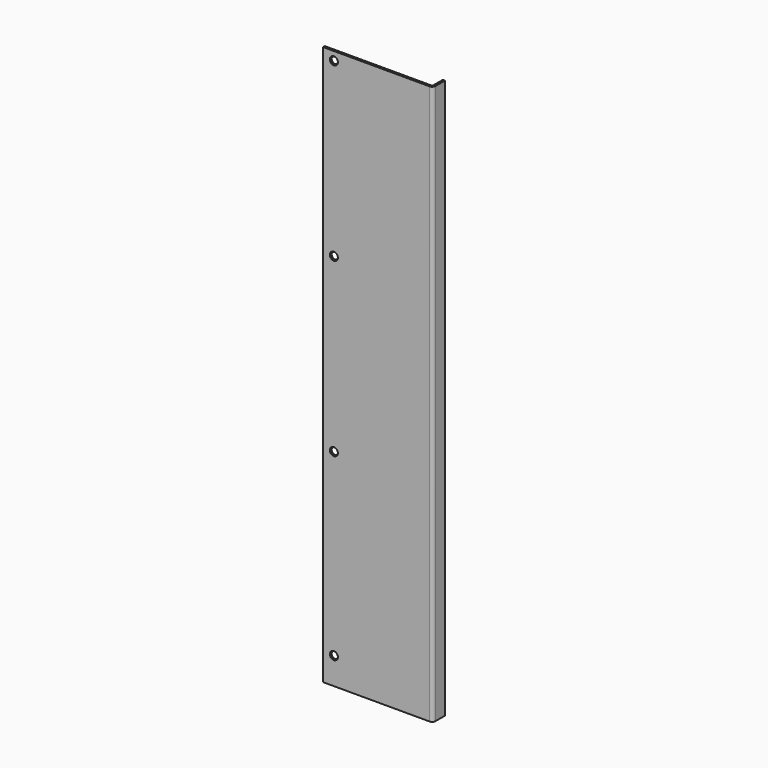
from build123d import *

# Parameters (mm, degrees)
F1_DEPTH = 260
F2_R     = 3.25
F3_DEPTH = 25
F4_SIZE  = 0.5


with BuildPart() as f1:
    # F0 (on Top) → F1 (new body, symmetric)
    with BuildSketch(Plane.XY):
        with BuildLine():
            Line((0, 12), (0, 1))
            ThreePointArc((0, 1), (-0.2928932188, 0.2928932188), (-1, 0))
            Line((-1, 0), (-100, 0))
            Line((-100, 0), (-100, -2))
            Line((-100, -2), (-1, -2))
            ThreePointArc((-1, -2), (1.1213203436, -1.1213203436), (2, 1))
            Line((2, 1), (2, 12))
            Line((2, 12), (0, 12))
        make_face()
    extrude(amount=F1_DEPTH, both=True)

    # F2 (on face) → F3 (cut)
    with BuildSketch(Plane.XZ.offset(2)):
        with Locations((-90, 252)):
            Circle(F2_R)
        with Locations((-90, -235)):
            Circle(F2_R)
        with Locations((-90, 92)):
            Circle(F2_R)
        with Locations((-90, -68)):
            Circle(F2_R)
    extrude(amount=-F3_DEPTH, mode=Mode.SUBTRACT)

    # F4
    f4_edges = [f1.edges().sort_by_distance(p)[0] for p in [
        (-93.25, -2, 252),
        (-86.75, -1, 252),
        (-93.25, 0, 252),
        (-93.25, -2, 92),
        (-86.75, -1, 92),
        (-93.25, 0, 92),
        (-93.25, -2, -68),
        (-86.75, -1, -68),
        (-93.25, 0, -68),
        (-93.25, -2, -235),
        (-86.75, -1, -235),
        (-93.25, 0, -235),
    ]]
    chamfer(f4_edges, length=F4_SIZE)


solid = f1.part
